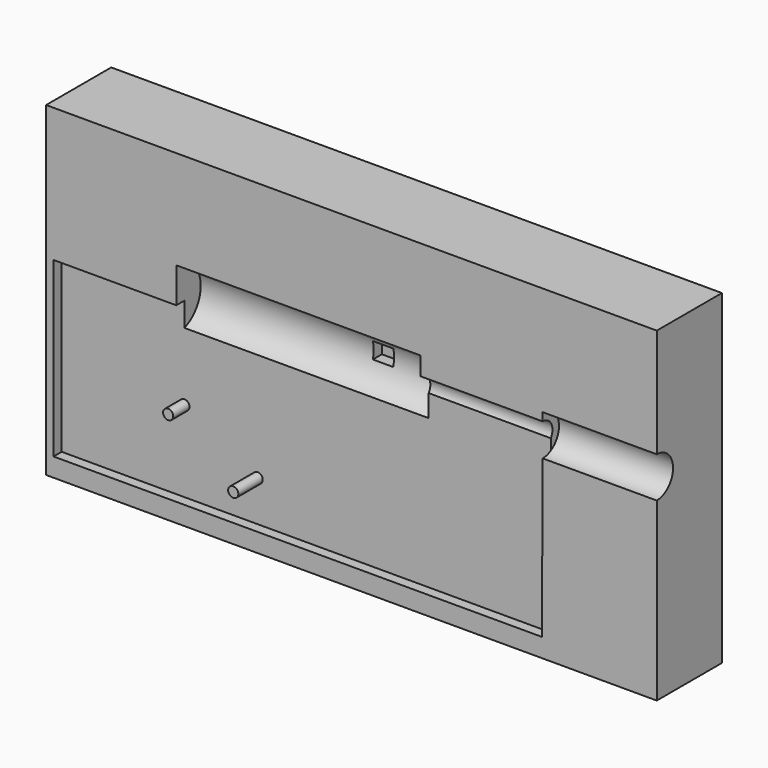
from build123d import *

# Parameters (mm, degrees)
F0_W      = 304.8
F0_H      = 152.4
F1_DEPTH  = 50.8
F2_W      = 152.4
F2_H      = 19.05
F4_W      = 12.7
F4_H      = 5.08
F5_DEPTH  = 25.4
F6_W      = 76.2
F6_H      = 7.62
F9_W      = 228.6
F9_H      = 63.5
F9_W_2    = 14.362933135
F10_DEPTH = 6.35
F8_W      = 6.35
F8_H      = 152.4
F8_W_2    = 44.45
F11_DEPTH = 76.2
F12_W     = 71.5284022924
F12_H     = 63.5
F13_DEPTH = 6.35
F14_R     = 3.175
F15_DEPTH = 12.7
F16_W     = 381
F16_H     = 50.8
F17_DEPTH = 50.8
F18_W     = 304.8
F18_H     = 44.45
F19_DEPTH = 6.35
F20_R     = 3.175
F21_DEPTH = 19.05
F22_W     = 71.1707984924
F22_H     = 12.7
F24_DEPTH = 6.35


with BuildPart() as f1:
    # F0 (on Front) → F1 (new body)
    with BuildSketch(Plane.XZ):
        with Locations((-5.0292015076, 4.4291064884)):
            Rectangle(F0_W, F0_H)
    extrude(amount=F1_DEPTH)

    # F2 (on face) → F3 (revolve, cut)
    with BuildSketch(Plane.XZ.offset(50.8)):
        with Locations((-76.2, -9.525)):
            Rectangle(F2_W, F2_H)
    revolve(axis=Axis((-76.2, -50.8, 0), (-1, 0, 0)), mode=Mode.SUBTRACT)

    # F4 (on face) → F5 (cut)
    with BuildSketch(Plane.XZ.offset(50.8)):
        with Locations((-38.1, 2.54)):
            Rectangle(F4_W, F4_H)
        with Locations((-38.1, -2.54)):
            Rectangle(F4_W, F4_H)
    extrude(amount=-F5_DEPTH, mode=Mode.SUBTRACT)

    # F6 (on face) → F7 (revolve, cut)
    with BuildSketch(Plane.XZ.offset(50.8)):
        with Locations((38.1, -3.81)):
            Rectangle(F6_W, F6_H)
    revolve(axis=Axis((38.1, -50.8, 0), (1, 0, 0)), mode=Mode.SUBTRACT)

    # F9 (on face) → F10 (cut)
    with BuildSketch(Plane.XZ.offset(50.8)):
        with Locations((-38.1, -34.6967290044)):
            Rectangle(F9_W, F9_H)
        with Locations((-159.5814665675, -34.6967290044)):
            Rectangle(F9_W_2, F9_H)
    extrude(amount=-F10_DEPTH, mode=Mode.SUBTRACT)

    # F8 (on face) → F11 (join)
    with BuildSketch(Plane(origin=(-157.4292015076, 0, 0), x_dir=(0, -1, 0), z_dir=(-1, 0, 0))):
        with Locations((47.625, 4.4291064884)):
            Rectangle(F8_W, F8_H)
        with Locations((22.225, 4.4291064884)):
            Rectangle(F8_W_2, F8_H)
    extrude(amount=F11_DEPTH)

    # F12 (on face) → F13 (cut)
    with BuildSketch(Plane.XZ.offset(50.8)):
        with Locations((-193.1934026538, -34.6967290044)):
            Rectangle(F12_W, F12_H)
    extrude(amount=-F13_DEPTH, mode=Mode.SUBTRACT)

    # F14 (on face) → F15 (join)
    with BuildSketch(Plane.XZ.offset(44.45)):
        with Locations((-152.4, -60.3105122421)):
            Circle(F14_R)
    extrude(amount=F15_DEPTH)

    # F16 (on face) → F17 (join)
    with BuildSketch(Plane(origin=(0, 0, -71.7708935116), x_dir=(1, 0, 0), z_dir=(0, 0, -1))):
        with Locations((-43.1292015076, 25.4)):
            Rectangle(F16_W, F16_H)
    extrude(amount=F17_DEPTH)

    # F18 (on face) → F19 (cut)
    with BuildSketch(Plane.XZ.offset(50.8)):
        with Locations((-76.5576038, -88.6717290044)):
            Rectangle(F18_W, F18_H)
    extrude(amount=-F19_DEPTH, mode=Mode.SUBTRACT)

    # F20 (on face) → F21 (join)
    with BuildSketch(Plane.XZ.offset(44.45)):
        with Locations((-106.7121654678, -85.4967290044)):
            Circle(F20_R)
    extrude(amount=F21_DEPTH)

    # F22 (on face) → F23 (revolve, cut)
    with BuildSketch(Plane.XZ.offset(50.8)):
        with Locations((111.7853992462, -6.35)):
            Rectangle(F22_W, F22_H)
    revolve(axis=Axis((111.7853992462, -50.8, 0), (1, 0, 0)), mode=Mode.SUBTRACT)

    # F14 (on face) → F24 (join)
    with BuildSketch(Plane.XZ.offset(44.45)):
        with Locations((-152.4, -60.3105122421)):
            Circle(F14_R)
    extrude(amount=F24_DEPTH)


solid = f1.part
